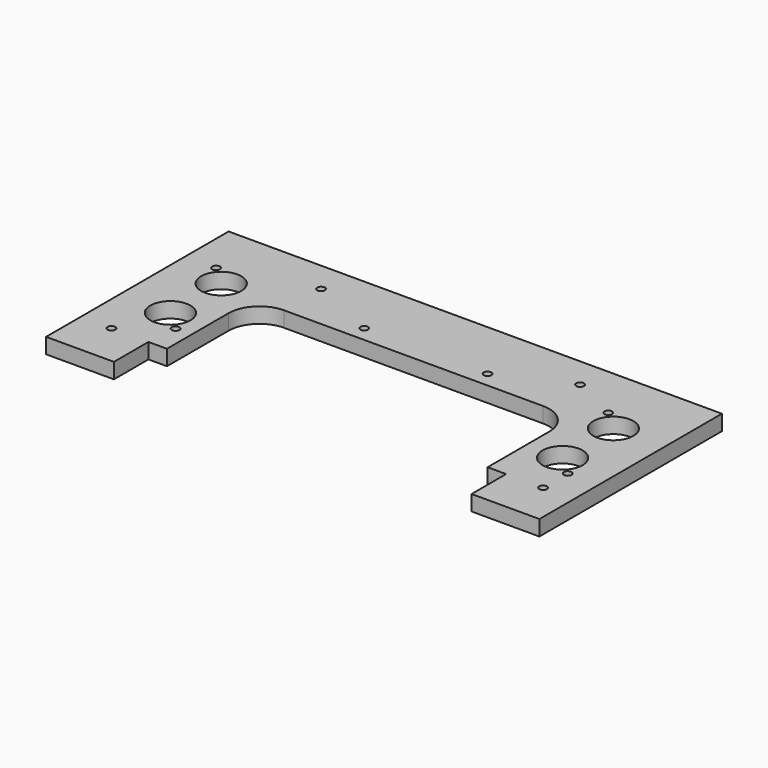
from build123d import *

# Parameters (mm, degrees)
F1_DEPTH = 6.35
F2_R     = 1.5875
F2_R_2   = 8.255
F3_DEPTH = 6.35


with BuildPart() as f1:
    # F0 (on Top) → F1 (new body)
    with BuildSketch(Plane.XY):
        with BuildLine():
            Line((0, 93.98), (0, 0))
            Line((0, 0), (27.94, 0))
            Line((27.94, 0), (27.94, 17.78))
            Line((27.94, 17.78), (35.56, 17.78))
            Line((35.56, 17.78), (35.56, 49.53))
            ThreePointArc((35.56, 49.53), (39.279744, 58.510256), (48.26, 62.23))
            Line((48.26, 62.23), (154.94, 62.23))
            ThreePointArc((154.94, 62.23), (163.920256, 58.510256), (167.64, 49.53))
            Line((167.64, 49.53), (167.64, 17.78))
            Line((167.64, 17.78), (175.26, 17.78))
            Line((175.26, 17.78), (175.26, 0))
            Line((175.26, 0), (203.2, 0))
            Line((203.2, 0), (203.2, 93.98))
            Line((203.2, 93.98), (0, 93.98))
        make_face()
    extrude(amount=F1_DEPTH)

    # F2 (on face) → F3 (cut)
    with BuildSketch(Plane.XY.offset(6.35)):
        with Locations((12.7, 17.78)):
            Circle(F2_R)
        with Locations((28.956, 30.48)):
            Circle(F2_R)
        with Locations((20.828, 37.973)):
            Circle(F2_R_2)
        with Locations((20.828, 64.135)):
            Circle(F2_R_2)
        with Locations((12.7, 71.628)):
            Circle(F2_R)
        with Locations((48.26, 81.28)):
            Circle(F2_R)
        with Locations((76.2, 68.58)):
            Circle(F2_R)
        with Locations((127, 68.58)):
            Circle(F2_R)
        with Locations((154.94, 81.28)):
            Circle(F2_R)
        with Locations((174.244, 71.628)):
            Circle(F2_R)
        with Locations((182.372, 64.135)):
            Circle(F2_R_2)
        with Locations((182.372, 37.973)):
            Circle(F2_R_2)
        with Locations((190.5, 30.48)):
            Circle(F2_R)
        with Locations((190.5, 17.78)):
            Circle(F2_R)
    extrude(amount=-F3_DEPTH, mode=Mode.SUBTRACT)


solid = f1.part
